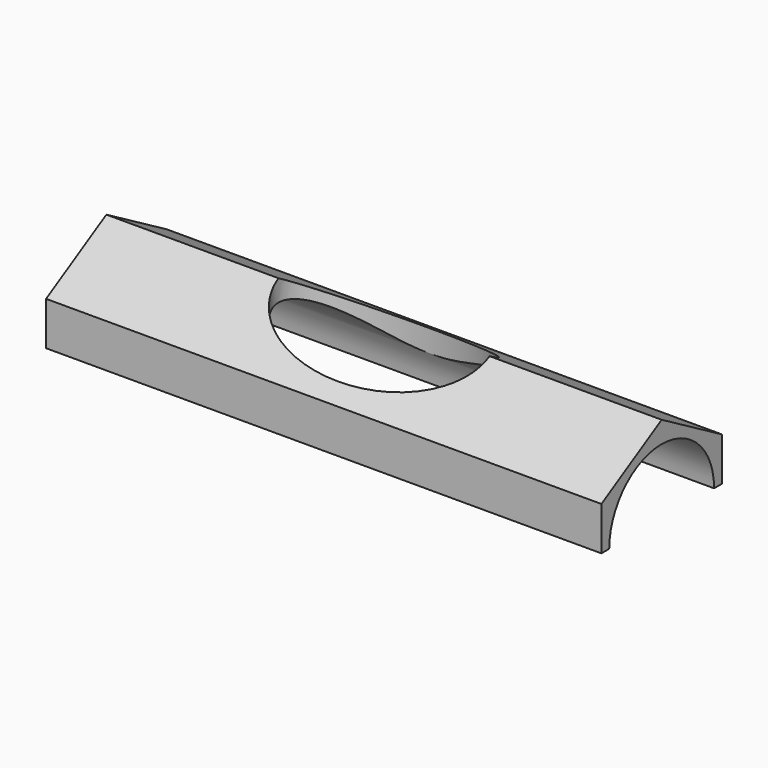
from build123d import *

# Parameters (mm, degrees)
F1_DEPTH = 150
F3_DEPTH = 46.996296


with BuildPart() as f1:
    # F0 (on Right) → F1 (new body, symmetric)
    with BuildSketch(Plane.YZ):
        with BuildLine():
            ThreePointArc((-35.405125, 0), (0, 35.405125), (35.405125, 0))
            Line((35.405125, 0), (40.699121, 0))
            Line((40.699121, 0), (40.699121, 23.497648))
            Line((40.699121, 23.497648), (0, 46.995296))
            Line((0, 46.995296), (-40.699121, 23.497648))
            Line((-40.699121, 23.497648), (-40.699121, 0))
            Line((-40.699121, 0), (-35.405125, 0))
        make_face()
    extrude(amount=F1_DEPTH, both=True)

    # F2 (on Top) → F3 (cut, through all)
    with BuildSketch(Plane.XY):
        with BuildLine():
            add(Edge.make_bspline(
                [(57.025861, 0), (57.025861, 53.796252), (-28.51293, 26.898126), (-114.051722, 0), (-28.51293, -26.898126), (57.025861, -53.796252), (57.025861, 0)],
                knots=[0, 0, 0, 2.094395, 2.094395, 4.18879, 4.18879, 6.283185, 6.283185, 6.283185], degree=2, weights=[1, 0.5, 1, 0.5, 1, 0.5, 1]))
        make_face()
    extrude(amount=F3_DEPTH, mode=Mode.SUBTRACT)


solid = f1.part
